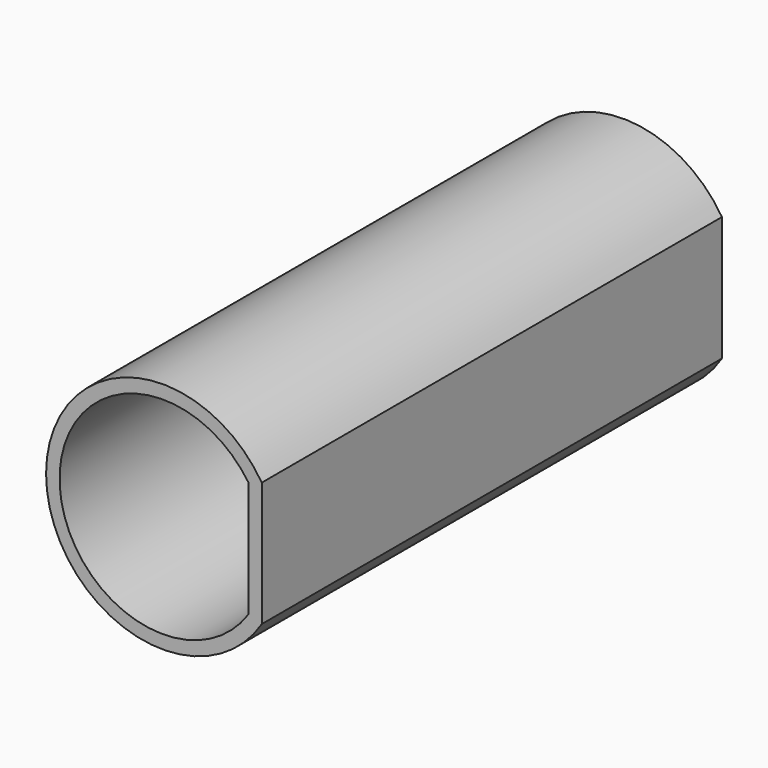
from build123d import *

# Parameters (mm, degrees)
F1_DEPTH = 64


with BuildPart() as f1:
    # F0 (on Front) → F1 (new body)
    with BuildSketch(Plane.XZ):
        with BuildLine():
            Line((10.514372, -7.338043), (10.514372, 6.518363))
            ThreePointArc((10.514372, 6.518363), (-13.485628, -0.40984), (10.514372, -7.338043))
        make_face()
        with BuildLine():
            ThreePointArc((9.014372, -6.890581), (-11.985628, -0.40984), (9.014372, 6.070901))
            Line((9.014372, 6.070901), (9.014372, -6.890581))
        make_face(mode=Mode.SUBTRACT)
    extrude(amount=F1_DEPTH)


solid = f1.part
